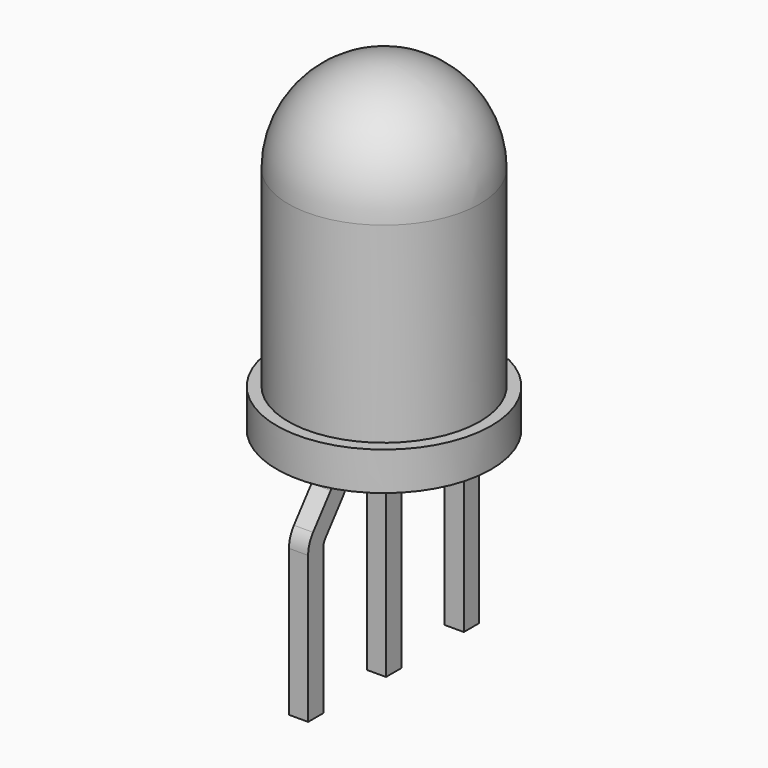
from build123d import *

# Parameters (mm, degrees)
F0_R     = 2.5
F1_DEPTH = 7.5
F2_R     = 2.5
F4_DEPTH = 1
F5_W     = 0.5
F5_H     = 0.5
F6_DEPTH = 5.5


with BuildPart() as f1:
    # F0 (on Top) → F1 (new body)
    with BuildSketch(Plane.XY):
        Circle(F0_R)
    extrude(amount=F1_DEPTH)

    # F2
    f2_edges = [f1.edges().sort_by_distance(p)[0] for p in [
        (-2.5, 0, 7.5),
    ]]
    fillet(f2_edges, radius=F2_R)

    # F3 (on face) → F4 (join)
    with BuildSketch(Plane(origin=(0, 0, 0), x_dir=(1, 0, 0), z_dir=(0, 0, -1))):
        with BuildLine():
            Line((-1.260952, -2.5), (1.260952, -2.5))
            ThreePointArc((1.260952, -2.5), (0, 2.8), (-1.260952, -2.5))
        make_face()
    extrude(amount=F4_DEPTH)

    # F5 (on face) → F6 (join)
    with BuildSketch(Plane(origin=(0, 0, -1), x_dir=(1, 0, 0), z_dir=(0, 0, -1))):
        Rectangle(F5_W, F5_H)
    extrude(amount=F6_DEPTH)

    # F8: sweep along a path in F7
    with BuildLine(Plane.YZ) as f8_path:
        Line((-1.75, -1), (-1.75, -1.326328))
        ThreePointArc((-1.75, -1.326328), (-1.777681, -1.490385), (-1.857659, -1.636277))
        Line((-1.857659, -1.636277), (-2.432341, -2.363723))
        ThreePointArc((-2.432341, -2.363723), (-2.512319, -2.509615), (-2.54, -2.673672))
        Line((-2.54, -2.673672), (-2.54, -6.5))
    # F5 (on face) → F8 (sweep)
    with BuildSketch(Plane(origin=(0, 0, -1), x_dir=(1, 0, 0), z_dir=(0, 0, -1))):
        with Locations((0, 1.75)):
            Rectangle(F5_W, F5_H)
    sweep(path=f8_path.line)

    # F9: sweep along a path in F7
    with BuildLine(Plane.YZ) as f9_path:
        Line((1.75, -1), (1.75, -1.326328))
        ThreePointArc((1.75, -1.326328), (1.777681, -1.490385), (1.857659, -1.636277))
        Line((1.857659, -1.636277), (2.432341, -2.363723))
        ThreePointArc((2.432341, -2.363723), (2.512319, -2.509615), (2.54, -2.673672))
        Line((2.54, -2.673672), (2.54, -6.5))
    # F5 (on face) → F9 (sweep)
    with BuildSketch(Plane(origin=(0, 0, -1), x_dir=(1, 0, 0), z_dir=(0, 0, -1))):
        with Locations((0, -1.75)):
            Rectangle(F5_W, F5_H)
    sweep(path=f9_path.line)


solid = f1.part
